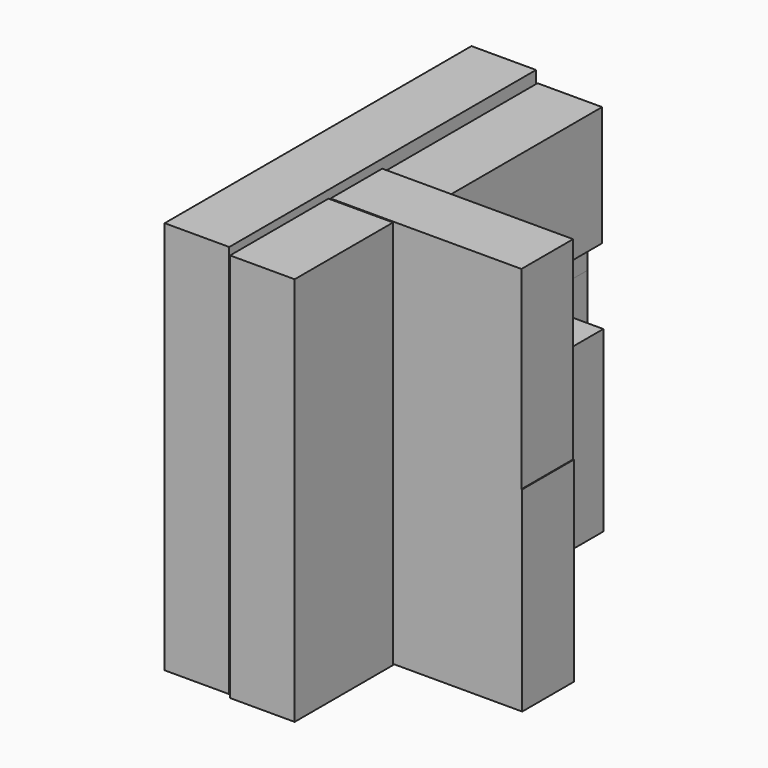
from build123d import *

# Parameters (mm, degrees)
F0_W      = 74.4453966618
F0_H      = 75.6485536695
F1_DEPTH  = 25.4
F3_W      = 74.4453966618
F3_H      = 76.2866288424
F4_DEPTH  = 25.4
F2_W      = 74.4453966618
F2_H      = 25.4
F5_DEPTH  = 25.4
F6_W      = 75.0896334648
F6_H      = 76.2501582503
F7_DEPTH  = 25.4
F8_W      = 48.3754314482
F8_H      = 153.2896459103
F9_DEPTH  = 25.4
F8_W_2    = 76.3705521822
F8_H_2    = 47.1660438925
F8_W_3    = 73.4701931942
F8_H_3    = 70.1443727594
F10_W     = 150.8555859327
F10_H     = 154.8547893763
F11_DEPTH = 25.4


with BuildPart() as f1:
    # F0 (on Top) → F1 (new body)
    with BuildSketch(Plane.XY):
        with Locations((-37.2226983309, 37.8242768347)):
            Rectangle(F0_W, F0_H)
    extrude(amount=F1_DEPTH)


with BuildPart() as f4:
    # F3 (on face) → F4 (new body)
    with BuildSketch(Plane(origin=(0, 75.6485536695, 0), x_dir=(-1, 0, 0), z_dir=(0, 1, 0))):
        with Locations((37.2226983309, -38.1433144212)):
            Rectangle(F3_W, F3_H)
    extrude(amount=F4_DEPTH)


with BuildPart() as f5:
    # F2 (on face) → F5 (new body)
    with BuildSketch(Plane(origin=(0, 75.6485536695, 0), x_dir=(-1, 0, 0), z_dir=(0, 1, 0))):
        with Locations((37.2226983309, 12.7)):
            Rectangle(F2_W, F2_H)
    extrude(amount=F5_DEPTH)


with BuildPart() as f5b:
    # F3 (on face) → F5, piece 2 (new body)
    with BuildSketch(Plane(origin=(0, 75.6485536695, 0), x_dir=(-1, 0, 0), z_dir=(0, 1, 0))):
        with Locations((37.2226983309, -38.1433144212)):
            Rectangle(F3_W, F3_H)
    extrude(amount=F5_DEPTH)


with BuildPart() as f7:
    # F6 (on Front) → F7 (new body)
    with BuildSketch(Plane.XZ):
        with Locations((37.5448167324, 38.1250791252)):
            Rectangle(F6_W, F6_H)
        Polygon((75.0896334648, 0), (0, 0), (0, -76.9387111068), (75.3905922174, -76.9387111068), (75.3905922174, 0), align=None)
    extrude(amount=F7_DEPTH)


with BuildPart() as f9:
    # F8 (on Right) → F9 (new body)
    with BuildSketch(Plane.YZ):
        with Locations((-50.614958629, -0.0419318676)):
            Rectangle(F8_W, F8_H)
    extrude(amount=F9_DEPTH)


with BuildPart() as f9b:
    # F8 (on Right) → F9, piece 2 (new body)
    with BuildSketch(Plane.YZ):
        with Locations((38.1852760911, 51.205794327)):
            Rectangle(F8_W_2, F8_H_2)
    extrude(amount=F9_DEPTH)


with BuildPart() as f9c:
    # F8 (on Right) → F9, piece 3 (new body)
    with BuildSketch(Plane.YZ):
        with Locations((40.2401521569, -37.381714792)):
            Rectangle(F8_W_3, F8_H_3)
    extrude(amount=F9_DEPTH)


with BuildPart() as f11:
    # F10 (on face) → F11 (new body)
    with BuildSketch(Plane(origin=(0, 0, 0), x_dir=(0, -1, 0), z_dir=(-1, 0, 0))):
        with Locations((-0.210121274, 2.2564306855)):
            Rectangle(F10_W, F10_H)
    extrude(amount=F11_DEPTH)


solid = Compound([f1.part, f4.part, f5.part, f5b.part, f7.part, f9.part, f9b.part, f9c.part, f11.part])
